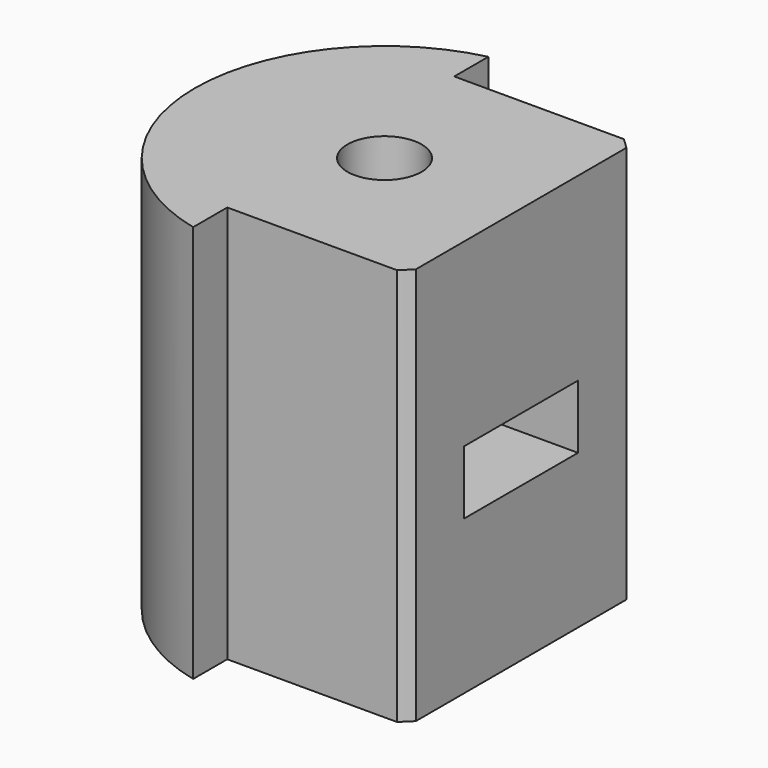
from build123d import *

# Parameters (mm, degrees)
F0_R     = 1.4
F1_DEPTH = 15
F2_W     = 5.37
F2_H     = 2.4
F3_DEPTH = 9.3


with BuildPart() as f1:
    # F0 (on Top) → F1 (new body)
    with BuildSketch(Plane.XY):
        with BuildLine():
            Line((-1.65, 5.35), (-1.65, 6.9570108524))
            ThreePointArc((-1.65, 6.9570108524), (-7.15, 0), (-1.65, -6.9570108524))
            Line((-1.65, -6.9570108524), (-1.65, -5.35))
            Line((-1.65, -5.35), (-1.65, 5.35))
        make_face()
        with BuildLine():
            Line((5.15, -4.9598387071), (5.15, 4.9598387071))
            ThreePointArc((5.15, 4.9598387071), (4.9505533954, 5.1589263494), (4.7434164903, 5.35))
            Line((4.7434164903, 5.35), (-1.65, 5.35))
            Line((-1.65, 5.35), (-1.65, -5.35))
            Line((-1.65, -5.35), (4.7434164903, -5.35))
            ThreePointArc((4.7434164903, -5.35), (4.9505533954, -5.1589263494), (5.15, -4.9598387071))
        make_face()
        Circle(F0_R, mode=Mode.SUBTRACT)
    extrude(amount=F1_DEPTH)

    # F2 (on face) → F3 (cut)
    with BuildSketch(Plane.YZ.offset(5.15)):
        with Locations((0, 7)):
            Rectangle(F2_W, F2_H)
    extrude(amount=-F3_DEPTH, mode=Mode.SUBTRACT)


solid = f1.part
